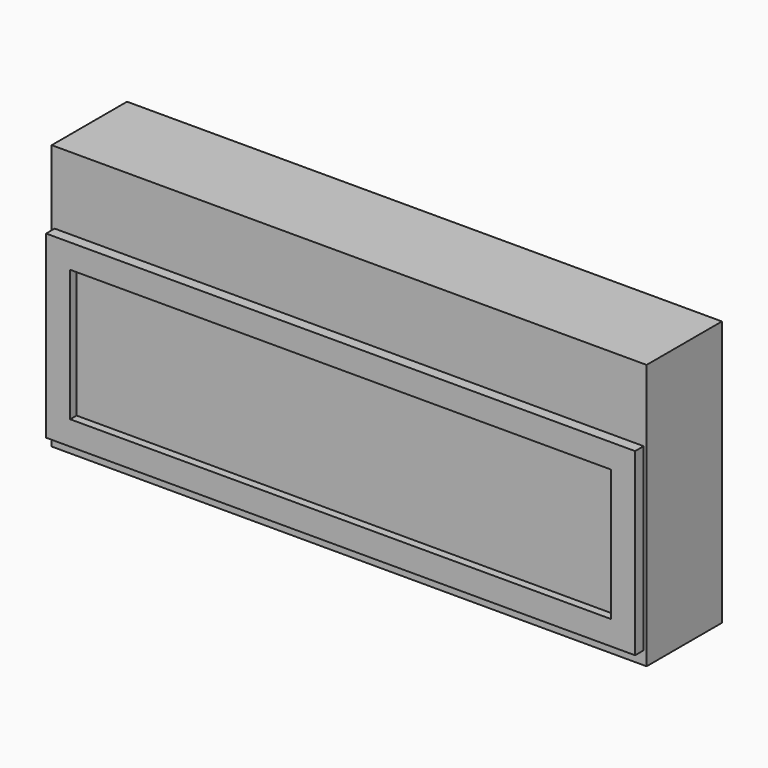
from build123d import *

# Parameters (mm, degrees)
F0_W     = 1112
F0_H     = 496
F1_DEPTH = 176
F2_W     = 1101
F2_H     = 336
F3_DEPTH = 20
F4_W     = 1011
F4_H     = 246
F5_DEPTH = 15


with BuildPart() as f1:
    # F0 (on Front) → F1 (new body)
    with BuildSketch(Plane.XZ):
        Rectangle(F0_W, F0_H)
    extrude(amount=F1_DEPTH)

    # F2 (on face) → F3 (join)
    with BuildSketch(Plane.XZ.offset(176)):
        with Locations((0, -55.5)):
            Rectangle(F2_W, F2_H)
    extrude(amount=F3_DEPTH)

    # F4 (on face) → F5 (cut)
    with BuildSketch(Plane.XZ.offset(196)):
        with Locations((0, -55.5)):
            Rectangle(F4_W, F4_H)
    extrude(amount=-F5_DEPTH, mode=Mode.SUBTRACT)


solid = f1.part
